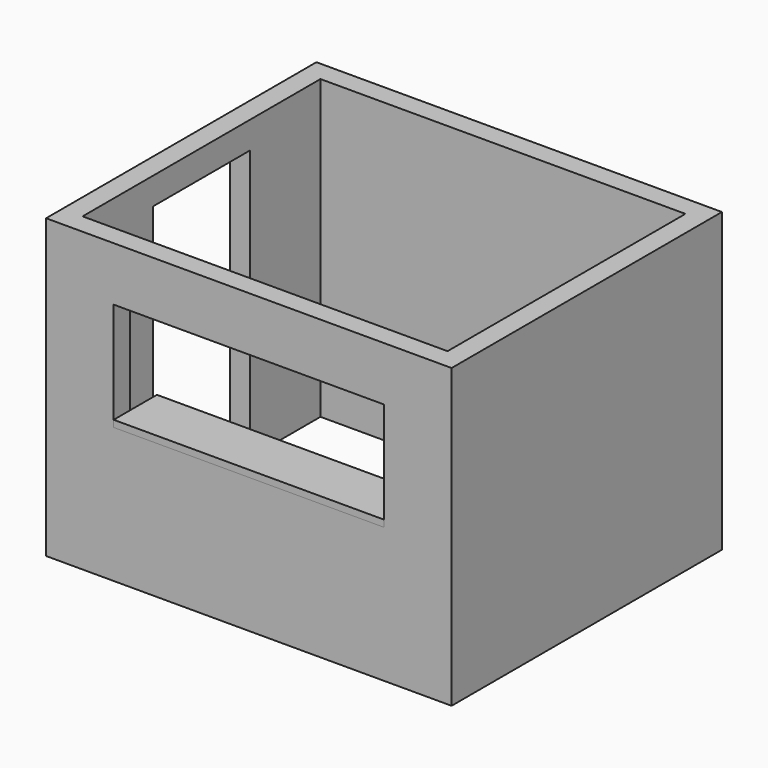
from build123d import *

# Parameters (mm, degrees)
F0_W     = 3000
F0_H     = 2500
F0_W_2   = 2700
F0_H_2   = 2200
F1_DEPTH = 2200
F2_DEPTH = 2200
F3_W     = 2000
F3_H     = 800
F4_DEPTH = 300
F5_W     = 900
F5_H     = 2000
F6_DEPTH = 300
F7_W     = 2000
F7_H     = 400
F8_DEPTH = 50


with BuildPart() as f1:
    # F0 (on Top) → F1 (new body)
    with BuildSketch(Plane.XY):
        with Locations((4.959445, 357.861314)):
            Rectangle(F0_W, F0_H)
        with Locations((4.959445, 357.861314)):
            Rectangle(F0_W_2, F0_H_2, mode=Mode.SUBTRACT)
    extrude(amount=F1_DEPTH)

    # F0 (on Top) → F2 (join)
    with BuildSketch(Plane.XY):
        with Locations((4.959445, 357.861314)):
            Rectangle(F0_W, F0_H)
        with Locations((4.959445, 357.861314)):
            Rectangle(F0_W_2, F0_H_2, mode=Mode.SUBTRACT)
    extrude(amount=F2_DEPTH)

    # F3 (on face) → F4 (cut)
    with BuildSketch(Plane.XZ.offset(892.138686)):
        with Locations((4.959445, 1400)):
            Rectangle(F3_W, F3_H)
    extrude(amount=-F4_DEPTH, mode=Mode.SUBTRACT)

    # F5 (on face) → F6 (cut)
    with BuildSketch(Plane(origin=(-1495.040555, 0, 0), x_dir=(0, -1, 0), z_dir=(-1, 0, 0))):
        with Locations((-357.861314, 1000)):
            Rectangle(F5_W, F5_H)
    extrude(amount=-F6_DEPTH, mode=Mode.SUBTRACT)


with BuildPart() as f8:
    # F7 (on face) → F8 (new body)
    with BuildSketch(Plane.XY.offset(1000)):
        with Locations((4.959445, -692.138686)):
            Rectangle(F7_W, F7_H)
    extrude(amount=F8_DEPTH)


solid = Compound([f1.part, f8.part])
